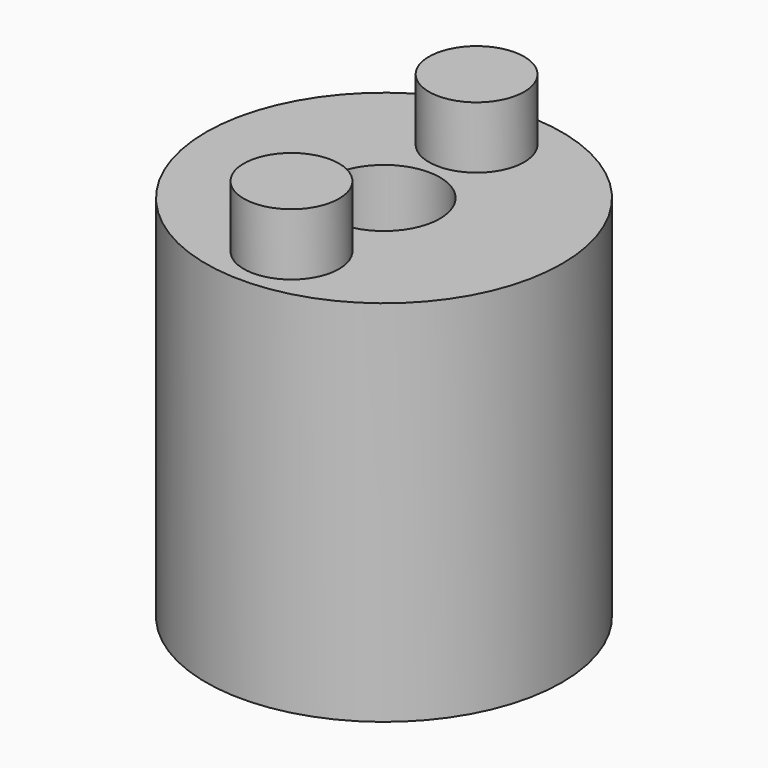
from build123d import *

# Parameters (mm, degrees)
F0_R     = 9.4996
F1_DEPTH = 19.6596
F2_R     = 2.9845
F3_DEPTH = 12.0396
F4_R     = 2.54
F5_DEPTH = 3.302
F6_W     = 3.175
F6_H     = 3.175
F7_DEPTH = 25.4


with BuildPart() as f1:
    # F0 (on Top) → F1 (new body)
    with BuildSketch(Plane.XY):
        Circle(F0_R)
    extrude(amount=F1_DEPTH)

    # F2 (on face) → F3 (cut)
    with BuildSketch(Plane.XY.offset(19.6596)):
        Circle(F2_R)
    extrude(amount=-F3_DEPTH, mode=Mode.SUBTRACT)

    # F4 (on face) → F5 (join)
    with BuildSketch(Plane.XY.offset(19.6596)):
        with Locations((0, -6.1722)):
            Circle(F4_R)
        with Locations((0, 6.1722)):
            Circle(F4_R)
    extrude(amount=F5_DEPTH)

    # F6 (on face) → F7 (cut)
    with BuildSketch(Plane(origin=(0, 0, 0), x_dir=(1, 0, 0), z_dir=(0, 0, -1))):
        Rectangle(F6_W, F6_H)
    extrude(amount=-F7_DEPTH, mode=Mode.SUBTRACT)


solid = f1.part
